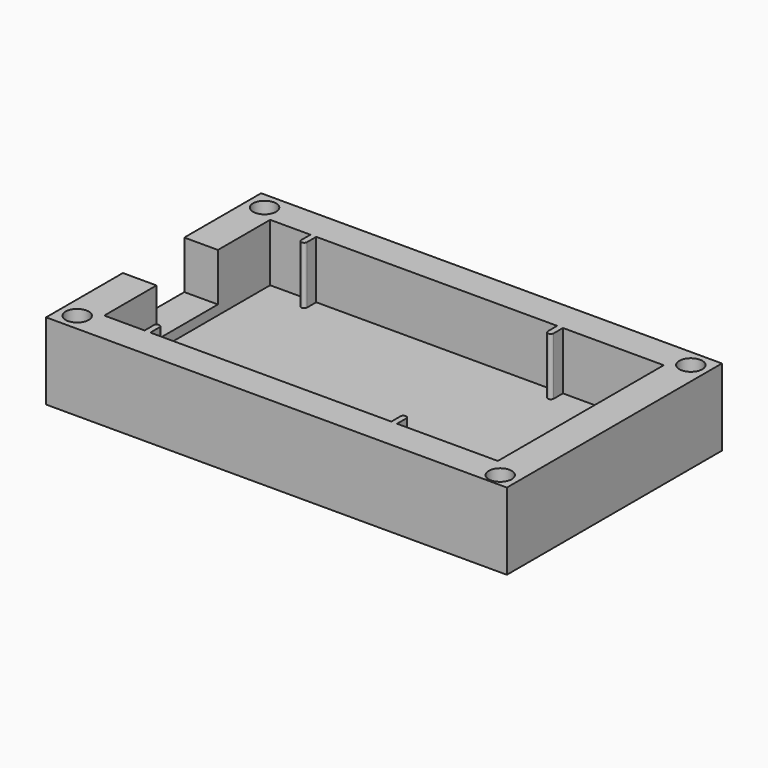
from build123d import *

# Parameters (mm, degrees)
SKETCH_W        = 48
SKETCH_H        = 28
PAD_DEPTH       = 8
POCKET_DEPTH    = 6
SKETCH002_W     = 4
SKETCH002_H     = 8
POCKET001_DEPTH = 5
SKETCH004_R     = 1.2
POCKET002_DEPTH = 3


with BuildPart() as part:
    # Sketch → Pad (new body)
    with BuildSketch(Plane.XY):
        with Locations((24, 14)):
            Rectangle(SKETCH_W, SKETCH_H)
    extrude(amount=PAD_DEPTH)

    # Sketch001 → Pocket (cut)
    with BuildSketch(Plane.XY.offset(8)):
        with BuildLine():
            Line((3.5, 3.2), (7.7, 3.2))
            Line((7.7, 3.2), (7.7, 4.4))
            ThreePointArc((8.3, 4.4), (8, 4.7), (7.7, 4.4))
            Line((8.3, 4.4), (8.3, 3.2))
            Line((8.3, 3.2), (33.4, 3.2))
            Line((33.4, 3.2), (33.4, 4.4))
            ThreePointArc((34, 4.4), (33.7, 4.7), (33.4, 4.4))
            Line((34, 4.4), (34, 3.2))
            Line((34, 3.2), (44.5, 3.2))
            Line((44.5, 3.2), (44.5, 24.8))
            Line((44.5, 24.8), (34, 24.8))
            Line((34, 24.8), (34, 23.6))
            ThreePointArc((33.4, 23.6), (33.7, 23.3), (34, 23.6))
            Line((33.4, 23.6), (33.4, 24.8))
            Line((33.4, 24.8), (8.3, 24.8))
            Line((8.3, 24.8), (8.3, 23.6))
            ThreePointArc((7.7, 23.6), (8, 23.3), (8.3, 23.6))
            Line((7.7, 23.6), (7.7, 24.8))
            Line((7.7, 24.8), (3.5, 24.8))
            Line((3.5, 24.8), (3.5, 3.2))
        make_face()
    extrude(amount=-POCKET_DEPTH, mode=Mode.SUBTRACT)

    # Sketch002 → Pocket001 (cut)
    with BuildSketch(Plane.XY.offset(8)):
        with Locations((2, 14)):
            Rectangle(SKETCH002_W, SKETCH002_H)
    extrude(amount=-POCKET001_DEPTH, mode=Mode.SUBTRACT)

    # Sketch004 → Pocket002 (cut)
    with BuildSketch(Plane.XY.offset(8)):
        with Locations((1.8, 26.2)):
            Circle(SKETCH004_R)
        with Locations((1.8, 1.8)):
            Circle(SKETCH004_R)
        with Locations((46.2, 1.382931)):
            Circle(SKETCH004_R)
        with Locations((46.2, 26.2)):
            Circle(SKETCH004_R)
    extrude(amount=-POCKET002_DEPTH, mode=Mode.SUBTRACT)


solid = part.part
